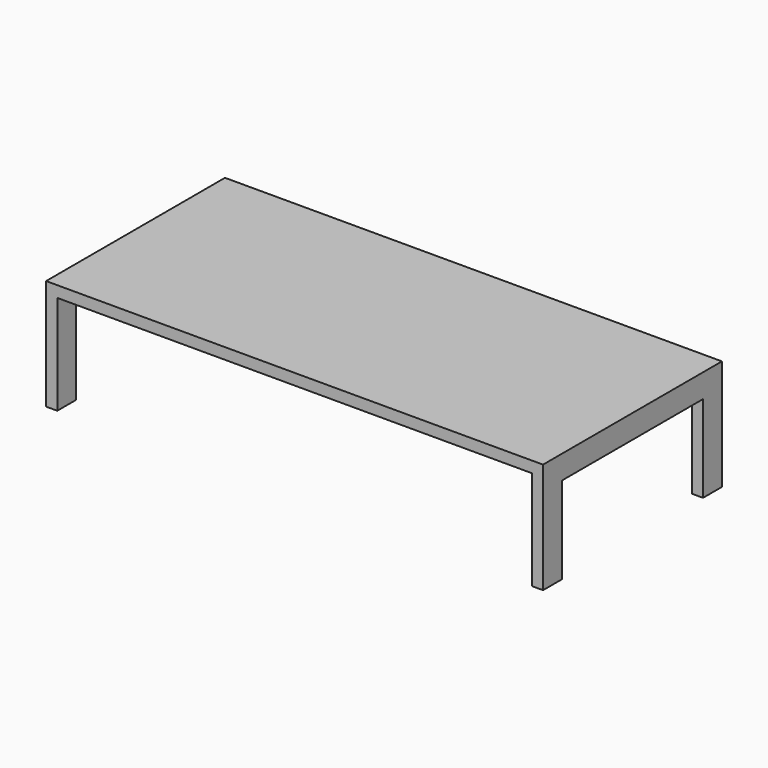
from build123d import *

# Parameters (mm, degrees)
F0_W     = 4.5
F0_H     = 40
F1_DEPTH = 90
F2_W     = 71
F2_H     = 35
F3_DEPTH = 200.001


with BuildPart() as f1:
    # F0 (on Front) → F1 (new body)
    with BuildSketch(Plane.XZ):
        Polygon((-100, 44.5), (-100, 40), (-95.5, 40), (95.5, 40), (100, 40), (100, 44.5), align=None)
        with Locations((-97.75, 20)):
            Rectangle(F0_W, F0_H)
        with Locations((97.75, 20)):
            Rectangle(F0_W, F0_H)
    extrude(amount=F1_DEPTH)

    # F2 (on face) → F3 (cut, through all)
    with BuildSketch(Plane.YZ.offset(100)):
        with Locations((-45, 17.5)):
            Rectangle(F2_W, F2_H)
        with Locations((-45, -17.5)):
            Rectangle(F2_W, F2_H)
    extrude(amount=-F3_DEPTH, mode=Mode.SUBTRACT)


solid = f1.part
